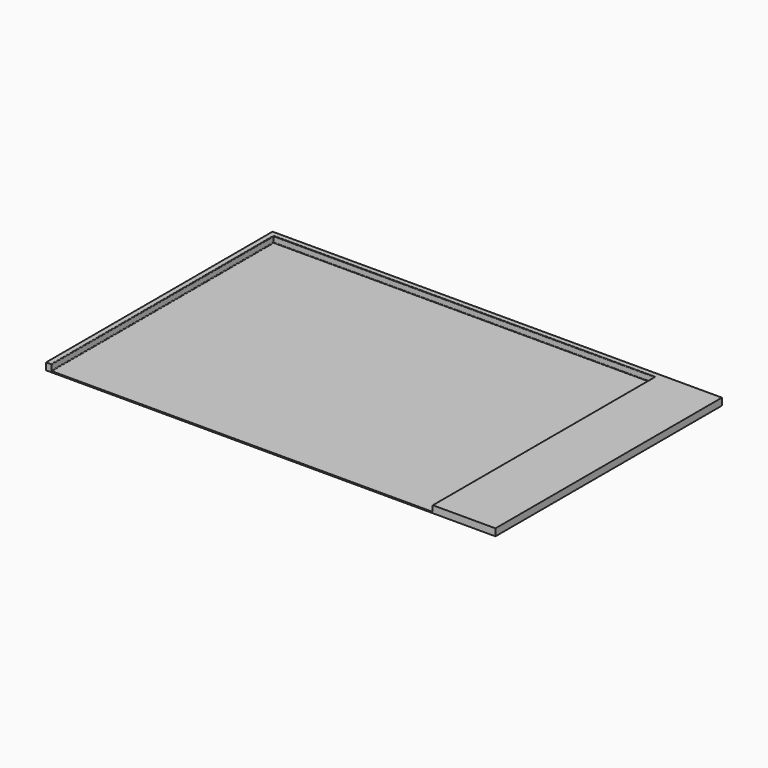
from build123d import *

# Parameters (mm, degrees)
F0_W     = 8223.25
F0_H     = 5994.4
F1_DEPTH = 25.4
F2_DEPTH = 152.4
F3_R     = 12.7


with BuildPart() as f1:
    # F0 (on Top) → F1 (new body)
    with BuildSketch(Plane.XY):
        with Locations((-5381.625, 2997.2)):
            Rectangle(F0_W, F0_H)
    extrude(amount=F1_DEPTH)

    # F0 (on Top) → F2 (join)
    with BuildSketch(Plane.XY):
        Polygon((-1270, 0), (0, 0), (88.9, 0), (88.9, 6108.7), (-9607.55, 6108.7), (-9607.55, 0), (-9493.25, 0), (-9493.25, 5994.4), (-1270, 5994.4), align=None)
    extrude(amount=F2_DEPTH)

    # F3
    f3_edges = [f1.edges().sort_by_distance(p)[0] for p in [
        (-1270, 2997.2, 152.4),
        (-1270, 2997.2, 25.4),
        (-5381.625, 5994.4, 25.4),
        (-9493.25, 2997.2, 25.4),
        (-9493.25, 2997.2, 152.4),
        (-5381.625, 5994.4, 152.4),
    ]]
    fillet(f3_edges, radius=F3_R)


solid = f1.part
